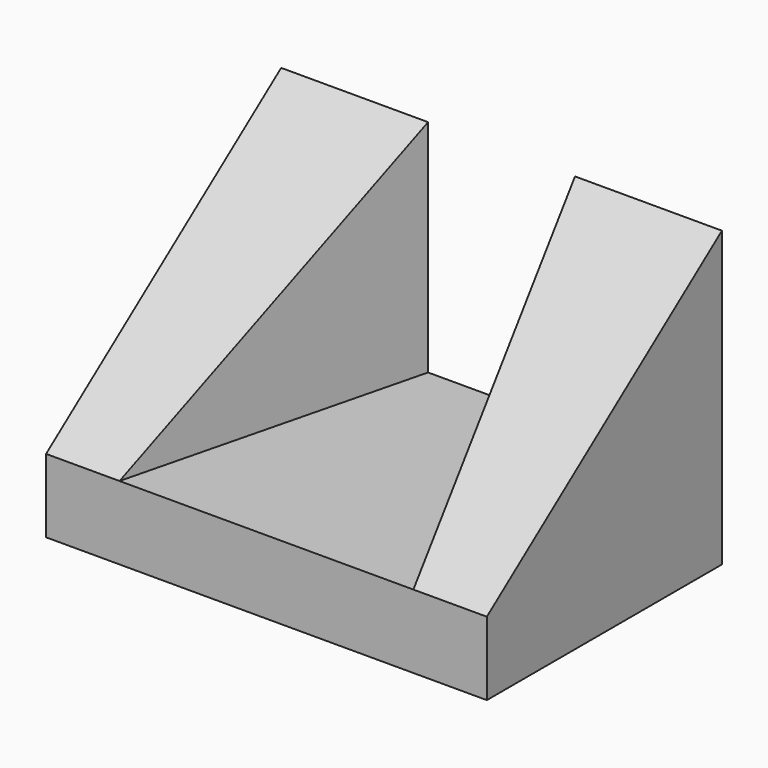
from build123d import *

# Parameters (mm, degrees)
F0_W     = 60
F0_H     = 40
F1_DEPTH = 40
F3_DEPTH = 30
F5_DEPTH = 60


with BuildPart() as f1:
    # F0 (on Top) → F1 (new body)
    with BuildSketch(Plane.XY):
        with Locations((4.44079, -5.219793)):
            Rectangle(F0_W, F0_H)
    extrude(amount=F1_DEPTH)

    # F2 (on face) → F3 (cut)
    with BuildSketch(Plane.XY.offset(40)):
        Polygon((-5.55921, 14.780207), (-15.55921, -25.219793), (24.44079, -25.219793), (14.44079, 14.780207), align=None)
    extrude(amount=-F3_DEPTH, mode=Mode.SUBTRACT)

    # F4 (on face) → F5 (cut)
    with BuildSketch(Plane.YZ.offset(34.44079)):
        Polygon((-25.219793, 40), (-25.219793, 10), (14.780207, 40), align=None)
    extrude(amount=-F5_DEPTH, mode=Mode.SUBTRACT)


solid = f1.part
